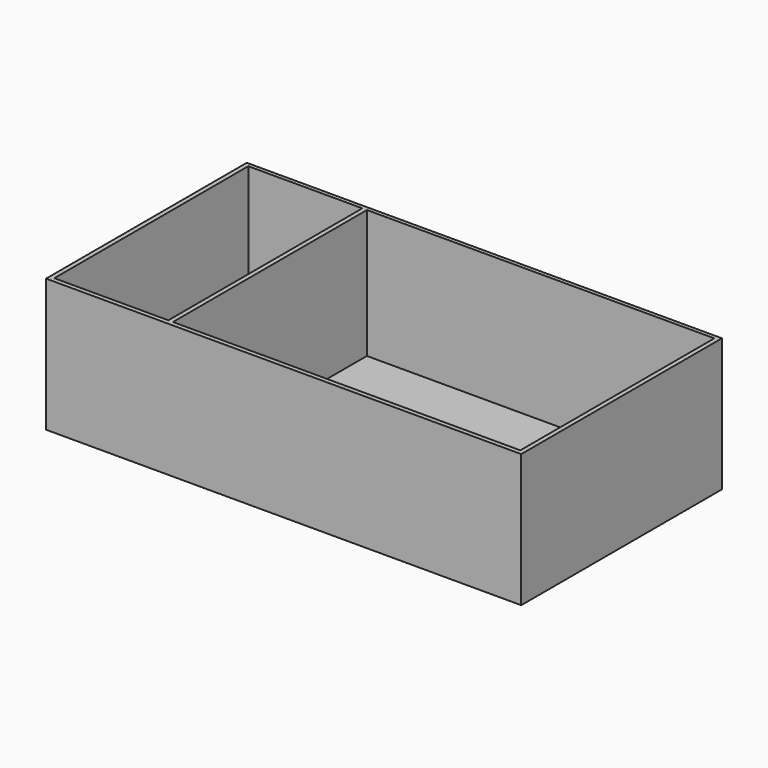
from build123d import *

# Parameters (mm, degrees)
F0_W     = 250
F0_H     = 132
F1_DEPTH = 70
F2_DEPTH = 2.4


with BuildPart() as f1:
    # F0 (on Top) → F1 (new body)
    with BuildSketch(Plane.XY):
        Rectangle(F0_W, F0_H)
        Polygon((-122.6, -63.6), (-122.6, 63.6), (-122.6, 64), (-62.6, 64), (-60.2, 64), (122.6, 64), (122.6, 63.6), (122.6, -63.6), (-60.2, -63.6), (-62.6, -63.6), align=None, mode=Mode.SUBTRACT)
        Polygon((-62.6, 63.6), (-62.6, -63.6), (-60.2, -63.6), (-60.2, 63.6), (-60.2, 64), (-62.6, 64), align=None)
    extrude(amount=F1_DEPTH)

    # F0 (on Top) → F2 (join)
    with BuildSketch(Plane.XY):
        Polygon((-122.6, 64), (-122.6, 63.6), (-122.6, -63.6), (-62.6, -63.6), (-62.6, 63.6), (-62.6, 64), align=None)
        Polygon((-60.2, 63.6), (-60.2, -63.6), (122.6, -63.6), (122.6, 63.6), (122.6, 64), (-60.2, 64), align=None)
    extrude(amount=F2_DEPTH)


solid = f1.part
